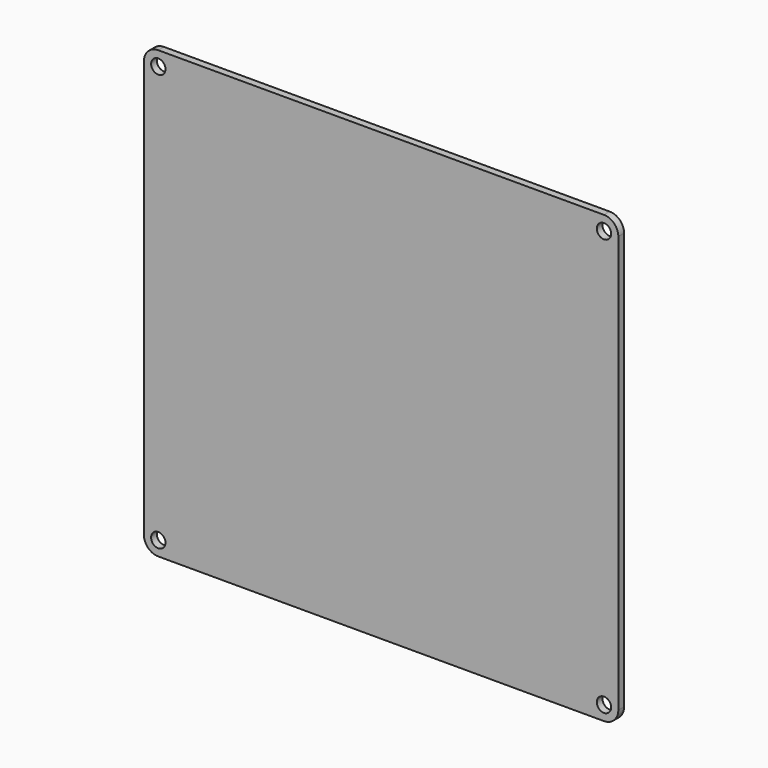
from build123d import *

# Parameters (mm, degrees)
F1_DEPTH = 3.175
F2_R     = 3.175
F3_DEPTH = 25.4


with BuildPart() as f1:
    # F0 (on Front) → F1 (new body)
    with BuildSketch(Plane.XZ):
        with BuildLine():
            Line((98.425, 98.425), (-98.425, 98.425))
            ThreePointArc((-98.425, 98.425), (-102.915128, 96.565128), (-104.775, 92.075))
            Line((-104.775, 92.075), (-104.775, -92.075))
            ThreePointArc((-104.775, -92.075), (-102.915128, -96.565128), (-98.425, -98.425))
            Line((-98.425, -98.425), (98.425, -98.425))
            ThreePointArc((98.425, -98.425), (102.915128, -96.565128), (104.775, -92.075))
            Line((104.775, -92.075), (104.775, 92.075))
            ThreePointArc((104.775, 92.075), (102.915128, 96.565128), (98.425, 98.425))
        make_face()
    extrude(amount=F1_DEPTH)

    # F2 (on face) → F3 (cut)
    with BuildSketch(Plane.XZ.offset(3.175)):
        with Locations((-98.425, 92.075)):
            Circle(F2_R)
        with Locations((98.425, 92.075)):
            Circle(F2_R)
        with Locations((98.425, -92.075)):
            Circle(F2_R)
        with Locations((-98.425, -92.075)):
            Circle(F2_R)
    extrude(amount=-F3_DEPTH, mode=Mode.SUBTRACT)


solid = f1.part
